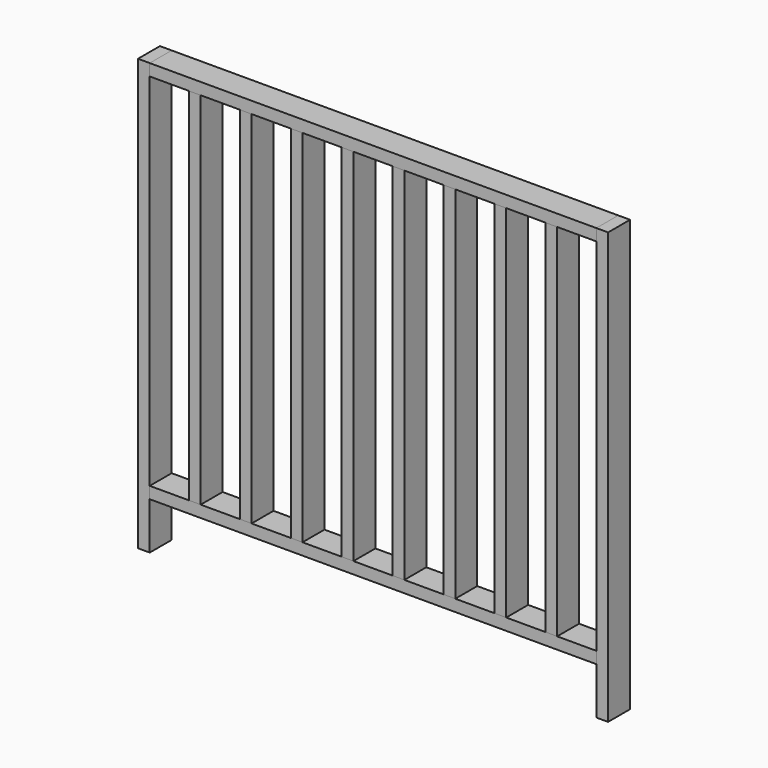
from build123d import *

# Parameters (mm, degrees)
BOX_W         = 30
BOX_H         = 70
BOX_DEPTH     = 1100
BOX001_W      = 30
BOX001_H      = 70
BOX001_DEPTH  = 1100
BOX002_W      = 1140
BOX002_H      = 70
BOX002_DEPTH  = 30
BOX003_W      = 1140
BOX003_H      = 70
BOX003_DEPTH  = 30
BOX004_W      = 30
BOX004_H      = 70
BOX004_DEPTH  = 920
ARRAY_X_COUNT = 8
ARRAY_X_PITCH = 130


with BuildPart() as box:
    # Box → Box (new body)
    with BuildSketch(Plane.XY):
        with Locations((15, 35)):
            Rectangle(BOX_W, BOX_H)
    extrude(amount=BOX_DEPTH)


with BuildPart() as box001:
    # Box001 → Box001 (new body)
    with BuildSketch(Plane(origin=(1170, 0, 0), x_dir=(1, 0, 0), z_dir=(0, 0, 1))):
        with Locations((15, 35)):
            Rectangle(BOX001_W, BOX001_H)
    extrude(amount=BOX001_DEPTH)


with BuildPart() as obj1:
    # Box002 → Box002 (new body)
    with BuildSketch(Plane(origin=(30, 0, 120), x_dir=(1, 0, 0), z_dir=(0, 0, 1))):
        with Locations((570, 35)):
            Rectangle(BOX002_W, BOX002_H)
    extrude(amount=BOX002_DEPTH)


with BuildPart() as obj2:
    # Box003 → Box003 (new body)
    with BuildSketch(Plane(origin=(30, 0, 1070), x_dir=(1, 0, 0), z_dir=(0, 0, 1))):
        with Locations((570, 35)):
            Rectangle(BOX003_W, BOX003_H)
    extrude(amount=BOX003_DEPTH)


with BuildPart() as obj3:
    # Box004 → Box004 (new body)
    with BuildSketch(Plane.XY):
        with Locations((15, 35)):
            Rectangle(BOX004_W, BOX004_H)
    extrude(amount=BOX004_DEPTH)

    # Array X: obj3 ×8


with BuildPart() as obj3_1:
    add(obj3.part)
    with Locations(*[(i * ARRAY_X_PITCH, 0, 0) for i in range(1, ARRAY_X_COUNT)]):
        add(obj3.part)


with BuildPart() as obj3_2:
    # Array placement: moved
    add(obj3_1.part.moved(Location((130, 0, 150))))


solid = Compound([box.part, box001.part, obj1.part, obj2.part, obj3_2.part])
